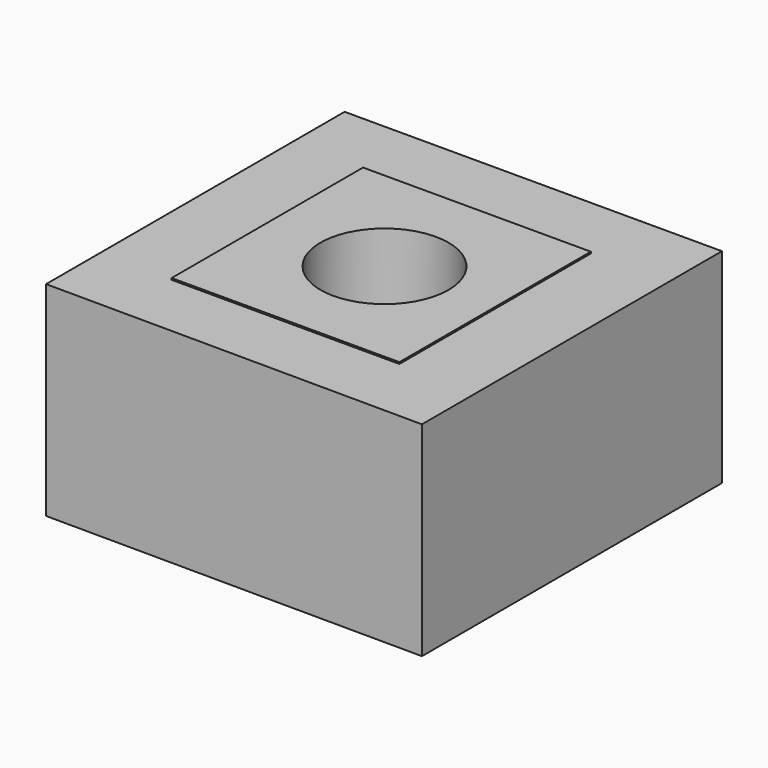
from build123d import *

# Parameters (mm, degrees)
F0_W     = 55.7806007564
F0_H     = 58.5907548666
F0_R     = 15.6812666629
F1_DEPTH = 25.4
F3_DEPTH = 25
F4_DEPTH = 25


with BuildPart() as f1:
    # F0 (on Top) → F1 (new body)
    with BuildSketch(Plane.XY):
        with Locations((-0.8635763079, 0.0774934888)):
            Rectangle(F0_W, F0_H)
        Circle(F0_R, mode=Mode.SUBTRACT)
    extrude(amount=F1_DEPTH)

    # F2 (on Top) → F3 (join)
    with BuildSketch(Plane.XY):
        Polygon((-46.4129857719, -45.5937832594), (46.0013560951, -46.0371151567), (46.0013560951, 45.8016321063), (-46.4129857719, 45.8016321063), align=None)
    extrude(amount=F3_DEPTH)

    # F4 (add): faces of the model
    f4_faces = [f1.faces().sort_by_distance(p)[0] for p in [
        (26.2177523788, 0.0774934888, 25.4),
        (-0.199564745, -44.5125917544, 25),
    ]]
    extrude(f4_faces, amount=F4_DEPTH)


solid = f1.part
